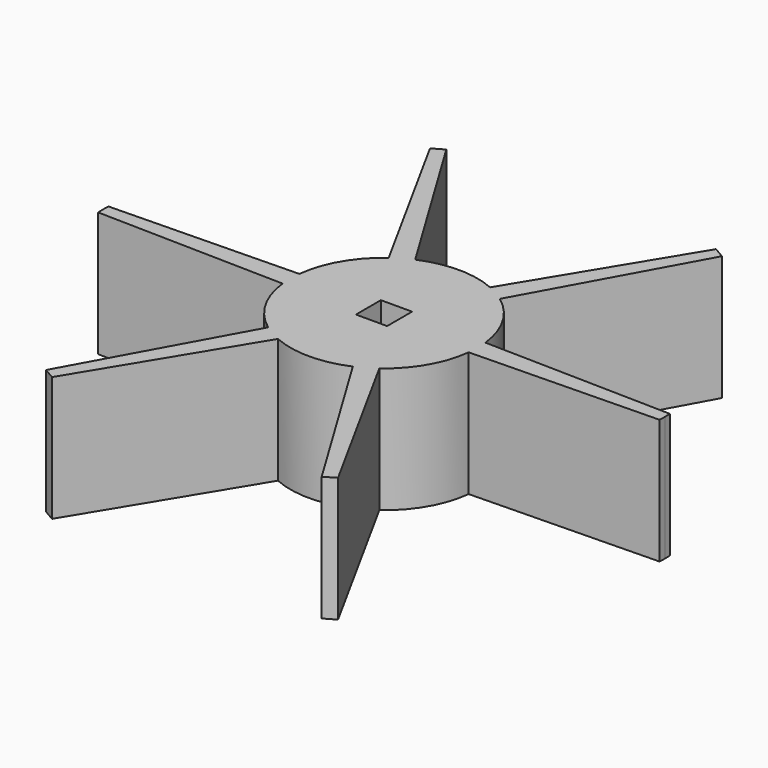
from build123d import *

# Parameters (mm, degrees)
F0_W     = 3.175
F0_H     = 3.175
F1_DEPTH = 12.7


with BuildPart() as f1:
    # F0 (on Top) → F1 (new body)
    with BuildSketch(Plane.XY):
        with BuildLine():
            ThreePointArc((9.525, 0), (9.510047, 0.533511), (9.465234, 1.065347))
            ThreePointArc((9.465234, 1.065347), (8.248892, 4.7625), (5.655234, 7.66446))
            ThreePointArc((5.655234, 7.66446), (4.7625, 8.248892), (3.81, 8.729807))
            ThreePointArc((3.81, 8.729807), (0, 9.525), (-3.81, 8.729807))
            ThreePointArc((-3.81, 8.729807), (-4.7625, 8.248892), (-5.655234, 7.66446))
            ThreePointArc((-5.655234, 7.66446), (-8.248892, 4.7625), (-9.465234, 1.065347))
            ThreePointArc((-9.465234, 1.065347), (-9.525, 0), (-9.465234, -1.065347))
            ThreePointArc((-9.465234, -1.065347), (-8.248892, -4.7625), (-5.655234, -7.66446))
            ThreePointArc((-5.655234, -7.66446), (-4.7625, -8.248892), (-3.81, -8.729807))
            ThreePointArc((-3.81, -8.729807), (0, -9.525), (3.81, -8.729807))
            ThreePointArc((3.81, -8.729807), (4.7625, -8.248892), (5.655234, -7.66446))
            ThreePointArc((5.655234, -7.66446), (8.248892, -4.7625), (9.465234, -1.065347))
            ThreePointArc((9.465234, -1.065347), (9.510047, -0.533511), (9.525, 0))
        make_face()
        Rectangle(F0_W, F0_H, mode=Mode.SUBTRACT)
        with BuildLine():
            Line((-9.465234, 1.065347), (-28.567479, 0.655569))
            ThreePointArc((-28.567479, 0.655569), (-28.575, 0), (-28.567479, -0.655569))
            Line((-28.567479, -0.655569), (-9.465234, -1.065347))
            ThreePointArc((-9.465234, -1.065347), (-9.525, 0), (-9.465234, 1.065347))
        make_face()
        with BuildLine():
            Line((-3.81, 8.729807), (-13.716, 25.067947))
            ThreePointArc((-13.716, 25.067947), (-14.2875, 24.746676), (-14.851479, 24.412378))
            Line((-14.851479, 24.412378), (-5.655234, 7.66446))
            ThreePointArc((-5.655234, 7.66446), (-4.7625, 8.248892), (-3.81, 8.729807))
        make_face()
        with BuildLine():
            Line((5.655234, 7.66446), (14.851479, 24.412378))
            ThreePointArc((14.851479, 24.412378), (14.2875, 24.746676), (13.716, 25.067947))
            Line((13.716, 25.067947), (3.81, 8.729807))
            ThreePointArc((3.81, 8.729807), (4.7625, 8.248892), (5.655234, 7.66446))
        make_face()
        with BuildLine():
            ThreePointArc((28.567479, -0.655569), (28.57312, -0.327806), (28.575, 0))
            ThreePointArc((28.575, 0), (28.57312, 0.327806), (28.567479, 0.655569))
            Line((28.567479, 0.655569), (9.465234, 1.065347))
            ThreePointArc((9.465234, 1.065347), (9.510047, 0.533511), (9.525, 0))
            ThreePointArc((9.525, 0), (9.510047, -0.533511), (9.465234, -1.065347))
            Line((9.465234, -1.065347), (28.567479, -0.655569))
        make_face()
        with BuildLine():
            ThreePointArc((13.716, -25.067947), (14.2875, -24.746676), (14.851479, -24.412378))
            Line((14.851479, -24.412378), (5.655234, -7.66446))
            ThreePointArc((5.655234, -7.66446), (4.7625, -8.248892), (3.81, -8.729807))
            Line((3.81, -8.729807), (13.716, -25.067947))
        make_face()
        with BuildLine():
            ThreePointArc((-14.851479, -24.412378), (-14.2875, -24.746676), (-13.716, -25.067947))
            Line((-13.716, -25.067947), (-3.81, -8.729807))
            ThreePointArc((-3.81, -8.729807), (-4.7625, -8.248892), (-5.655234, -7.66446))
            Line((-5.655234, -7.66446), (-14.851479, -24.412378))
        make_face()
    extrude(amount=F1_DEPTH)


solid = f1.part
